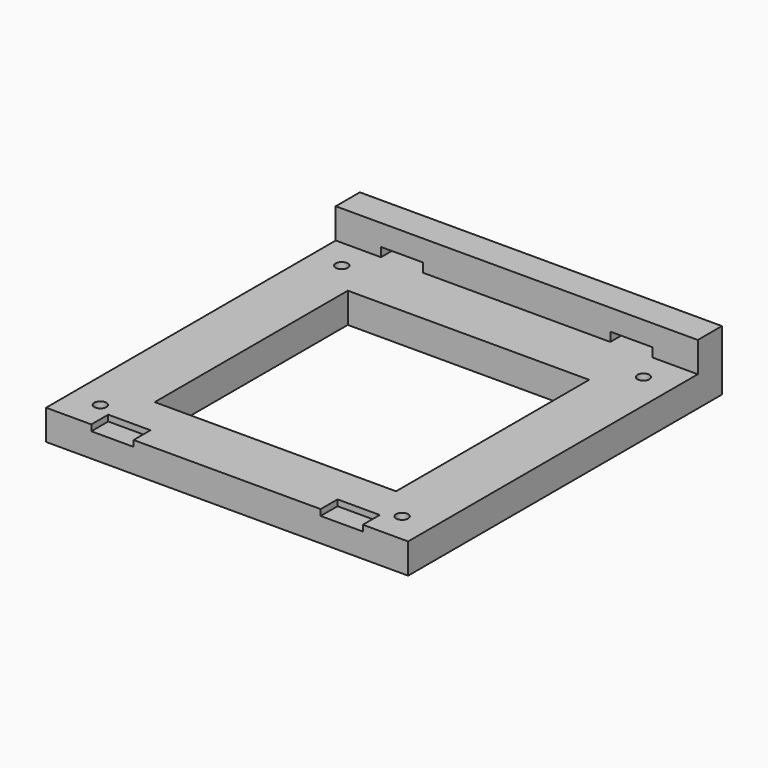
from build123d import *

# Parameters (mm, degrees)
F0_W      = 120
F0_H      = 130
F1_DEPTH  = 10
F2_W      = 120
F2_H      = 10
F3_DEPTH  = 10
F4_W      = 14
F4_H      = 3
F5_DEPTH  = 25
F6_DEPTH  = 25
F7_R      = 2
F8_DEPTH  = 25
F9_W      = 14
F9_H      = 7
F10_DEPTH = 2
F11_W     = 80
F11_H     = 80
F12_DEPTH = 25


with BuildPart() as f1:
    # F0 (on Top) → F1 (new body)
    with BuildSketch(Plane.XY):
        with Locations((1.984598, 20.88183)):
            Rectangle(F0_W, F0_H)
    extrude(amount=F1_DEPTH)

    # F2 (on face) → F3 (join)
    with BuildSketch(Plane.XY.offset(10)):
        with Locations((1.984598, 80.88183)):
            Rectangle(F2_W, F2_H)
    extrude(amount=F3_DEPTH)

    # F4 (on face) → F5 (cut)
    with BuildSketch(Plane.XZ.offset(-75.88183)):
        with Locations((-36.015402, 11.5)):
            Rectangle(F4_W, F4_H)
    extrude(amount=-F5_DEPTH, mode=Mode.SUBTRACT)

    # F4 (on face) → F6 (cut)
    with BuildSketch(Plane.XZ.offset(-75.88183)):
        with Locations((39.984598, 11.5)):
            Rectangle(F4_W, F4_H)
    extrude(amount=-F6_DEPTH, mode=Mode.SUBTRACT)

    # F7 (on face) → F8 (cut)
    with BuildSketch(Plane.XY.offset(10)):
        with Locations((-48.015402, 65.88183)):
            Circle(F7_R)
        with Locations((51.984598, 65.88183)):
            Circle(F7_R)
        with Locations((51.984598, -34.11817)):
            Circle(F7_R)
        with Locations((-48.015402, -34.11817)):
            Circle(F7_R)
    extrude(amount=-F8_DEPTH, mode=Mode.SUBTRACT)

    # F9 (on face) → F10 (cut)
    with BuildSketch(Plane.XY.offset(10)):
        with Locations((-36.015402, -40.61817)):
            Rectangle(F9_W, F9_H)
        with Locations((39.984598, -40.61817)):
            Rectangle(F9_W, F9_H)
    extrude(amount=-F10_DEPTH, mode=Mode.SUBTRACT)

    # F11 (on face) → F12 (cut)
    with BuildSketch(Plane.XY.offset(10)):
        with Locations((1.984598, 15.88183)):
            Rectangle(F11_W, F11_H)
    extrude(amount=-F12_DEPTH, mode=Mode.SUBTRACT)


solid = f1.part
